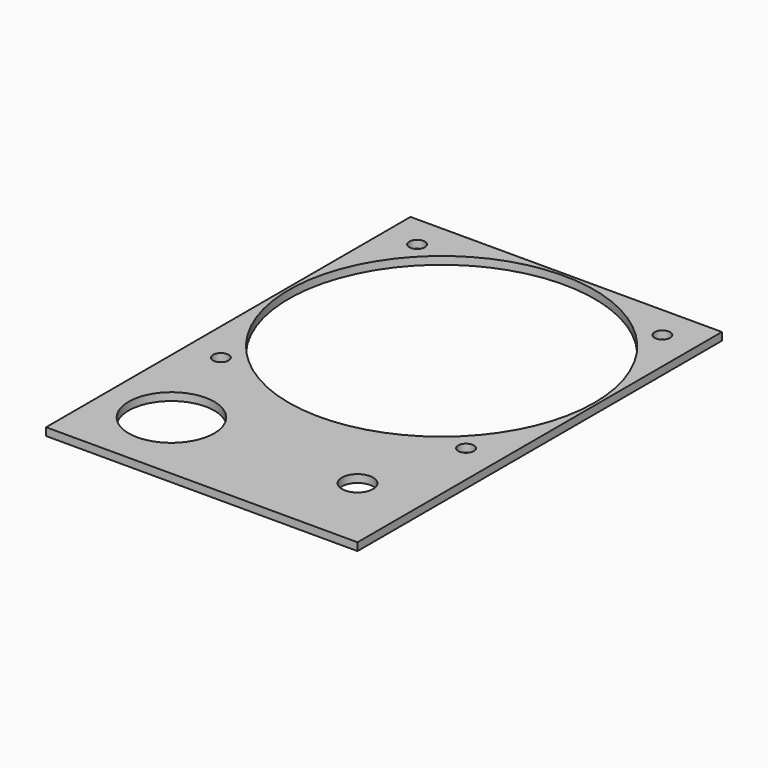
from build123d import *

# Parameters (mm, degrees)
CYLINDER005_R     = 2
CYLINDER005_DEPTH = 2
CYLINDER006_R     = 2
CYLINDER006_DEPTH = 2
CYLINDER004_R     = 2
CYLINDER004_DEPTH = 2
CYLINDER003_R     = 2
CYLINDER003_DEPTH = 2
CYLINDER022_R     = 11
CYLINDER022_DEPTH = 2
CYLINDER023_R     = 4
CYLINDER023_DEPTH = 2
CYLINDER002_R     = 39.25
CYLINDER002_DEPTH = 2
BOX002_W          = 80
BOX002_H          = 117
BOX002_DEPTH      = 2


with BuildPart() as mounthole002:
    # Cylinder005 → Cylinder005 (new body)
    with BuildSketch(Plane(origin=(63, 63, 20), x_dir=(1, 0, 0), z_dir=(0, 0, 1))):
        Circle(CYLINDER005_R)
    extrude(amount=CYLINDER005_DEPTH)


with BuildPart() as mounthole003:
    # Cylinder006 → Cylinder006 (new body)
    with BuildSketch(Plane(origin=(0, 63, 20), x_dir=(1, 0, 0), z_dir=(0, 0, 1))):
        Circle(CYLINDER006_R)
    extrude(amount=CYLINDER006_DEPTH)


with BuildPart() as mounthole001:
    # Cylinder004 → Cylinder004 (new body)
    with BuildSketch(Plane(origin=(63, 0, 20), x_dir=(1, 0, 0), z_dir=(0, 0, 1))):
        Circle(CYLINDER004_R)
    extrude(amount=CYLINDER004_DEPTH)


with BuildPart() as mountholes:
    # Cylinder003 → Cylinder003 (new body)
    with BuildSketch(Plane.XY.offset(20)):
        Circle(CYLINDER003_R)
    extrude(amount=CYLINDER003_DEPTH)

    # Fusion: union MountHole002, MountHole003, MountHole001
    add(mounthole002.part)
    add(mounthole003.part)
    add(mounthole001.part)


with BuildPart() as mountholes_1:
    # Fusion placement: moved
    add(mountholes.part.moved(Location((6.5, 6.5, 0))))


with BuildPart() as mounttubehole:
    # Cylinder022 → Cylinder022 (new body)
    with BuildSketch(Plane(origin=(15, -20, 20), x_dir=(1, 0, 0), z_dir=(0, 0, 1))):
        Circle(CYLINDER022_R)
    extrude(amount=CYLINDER022_DEPTH)


with BuildPart() as volumehole001:
    # Cylinder023 → Cylinder023 (new body)
    with BuildSketch(Plane(origin=(62, -19, 20), x_dir=(1, 0, 0), z_dir=(0, 0, 1))):
        Circle(CYLINDER023_R)
    extrude(amount=CYLINDER023_DEPTH)


with BuildPart() as obj1:
    # Cylinder002 → Cylinder002 (new body)
    with BuildSketch(Plane(origin=(38, 38, 20), x_dir=(1, 0, 0), z_dir=(0, 0, 1))):
        Circle(CYLINDER002_R)
    extrude(amount=CYLINDER002_DEPTH)

    # Fusion001: union MountHoles, MountTubeHole, VolumeHole001
    add(mountholes_1.part)
    add(mounttubehole.part)
    add(volumehole001.part)


with BuildPart() as mount:
    # Box002 → Box002 (new body)
    with BuildSketch(Plane(origin=(-2, -39, 20), x_dir=(1, 0, 0), z_dir=(0, 0, 1))):
        with Locations((40, 58.5)):
            Rectangle(BOX002_W, BOX002_H)
    extrude(amount=BOX002_DEPTH)

    # Cut013: cut obj1
    add(obj1.part, mode=Mode.SUBTRACT)


with BuildPart() as mount_1:
    # Cut013 placement: moved
    add(mount.part.moved(Location((0, 2, 0))))


solid = mount_1.part
